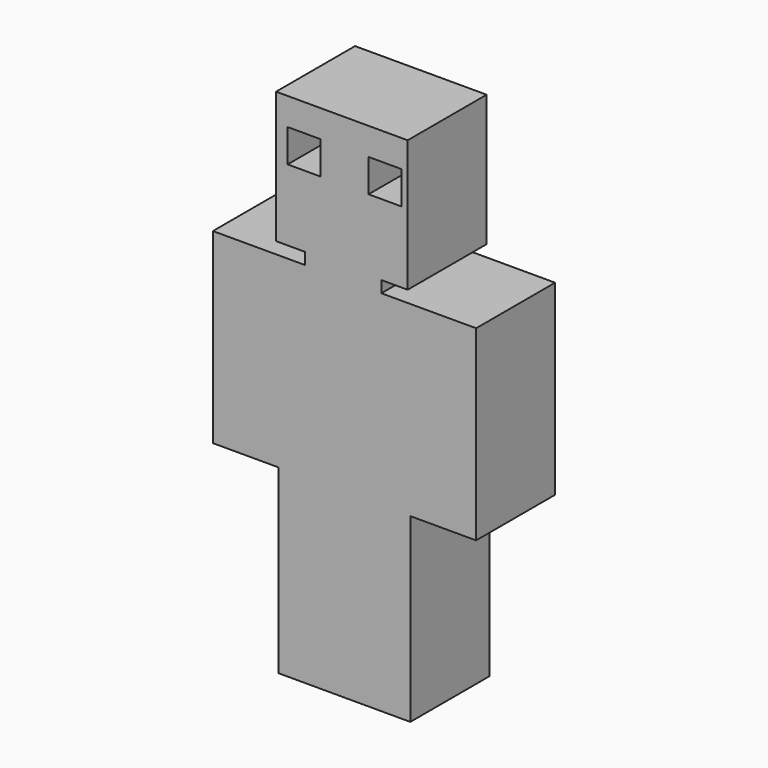
from build123d import *

# Parameters (mm, degrees)
F0_W     = 58.9215288217
F0_H     = 8.9712000314
F0_H_2   = 1.1887999686
F0_W_2   = 50.8
F0_H_3   = 93.8377175136
F0_H_4   = 50.346628223
F0_H_5   = 109.2197667617
F0_H_6   = 30.6704640388
F1_DEPTH = 38.1


with BuildPart() as f1:
    # F0 (on Front) → F1 (new body, symmetric)
    with BuildSketch(Plane.XZ):
        Polygon((-52.8541674206, 65.5549615622), (-52.8541674206, -9.8338549508), (-30.4587072518, -9.8338549508), (28.4628215698, -9.8338549508), (48.7458325794, -9.8338549508), (48.7458325794, 71.4190080762), (33.4042608738, 71.4190080762), (33.4042608738, 75.9503096342), (8.8818948716, 75.9503096342), (8.8818948716, 71.6855600476), (-20.7048710436, 71.6855600476), (-20.7048710436, 79.6819776297), (-47.3596155643, 79.6819776297), (-47.3596155643, 65.5549615622), align=None)
        Polygon((-18.5442172647, 45.2312529087), (-43.9442172647, 45.2312529087), (-43.9442172647, 70.6312529087), (-31.2442172647, 70.6312529087), (-18.5442172647, 70.6312529087), (-18.5442172647, 53.8268759847), align=None, mode=Mode.SUBTRACT)
        Polygon((43.9442172647, 45.2312529087), (18.5442172647, 45.2312529087), (18.5442172647, 70.6312529087), (31.2442172647, 70.6312529087), (43.9442172647, 70.6312529087), (43.9442172647, 53.8268759847), align=None, mode=Mode.SUBTRACT)
        with Locations((-0.997942841, -14.3194549665)):
            Rectangle(F0_W, F0_H)
        Polygon((-52.8541674206, 91.7661450492), (-52.8541674206, 65.5549615622), (-47.3596155643, 65.5549615622), (-47.3596155643, 79.6819776297), (-20.7048710436, 79.6819776297), (-20.7048710436, 71.6855600476), (8.8818948716, 71.6855600476), (8.8818948716, 75.9503096342), (33.4042608738, 75.9503096342), (33.4042608738, 71.4190080762), (48.7458325794, 71.4190080762), (48.7458325794, 91.7661450492), align=None)
        with Locations((-0.997942841, -19.3994549665)):
            Rectangle(F0_W, F0_H_2)
        Polygon((-30.4587072518, -19.9938549508), (-30.4587072518, -18.8050549821), (-50.8, -18.8050549821), (-50.8, -112.6427724957), (-50.8, -162.9894007187), (0, -162.9894007187), (50.8, -162.9894007187), (50.8, -112.6427724957), (50.8, -18.8050549821), (28.4628215698, -18.8050549821), (28.4628215698, -19.9938549508), align=None)
        with Locations((-76.2, -65.7239137389)):
            Rectangle(F0_W_2, F0_H_3)
        Polygon((53.1537466286, -18.8050549821), (50.8, -18.8050549821), (50.8, -112.6427724957), (101.6, -112.6427724957), (101.6, -18.8050549821), align=None)
        with Locations((-76.2, -137.8160866072)):
            Rectangle(F0_W_2, F0_H_4)
        with Locations((76.2, -137.8160866072)):
            Rectangle(F0_W_2, F0_H_4)
        with Locations((-25.4, -217.5992840996)):
            Rectangle(F0_W_2, F0_H_5)
        with Locations((25.4, -217.5992840996)):
            Rectangle(F0_W_2, F0_H_5)
        with Locations((-25.4, -287.5443994999)):
            Rectangle(F0_W_2, F0_H_6)
        with Locations((25.4, -287.5443994999)):
            Rectangle(F0_W_2, F0_H_6)
    extrude(amount=F1_DEPTH, both=True)


solid = f1.part
